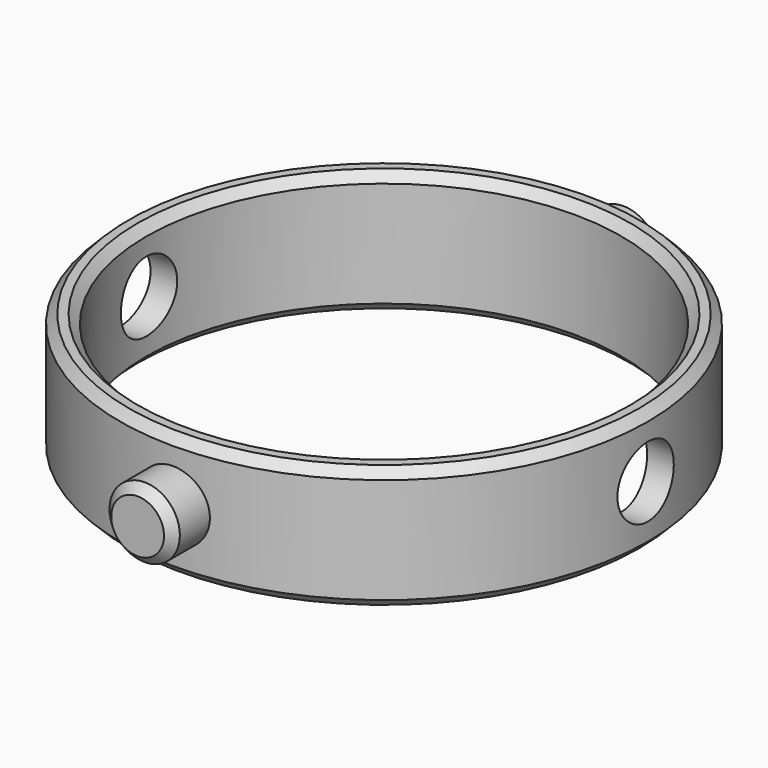
from build123d import *

# Parameters (mm, degrees)
F0_R     = 15
F0_R_2   = 13.5
F1_DEPTH = 7
F2_R     = 2
F3_DEPTH = 20
F4_SIZE  = 0.5
F6_R     = 2
F7_DEPTH = 4
F9_SIZE  = 0.5


with BuildPart() as f1:
    # F0 (on Top) → F1 (new body)
    with BuildSketch(Plane.XY):
        Circle(F0_R)
        Circle(F0_R_2, mode=Mode.SUBTRACT)
    extrude(amount=F1_DEPTH)

    # F2 (on Right) → F3 (cut, symmetric)
    with BuildSketch(Plane.YZ):
        with Locations((0, 3.5)):
            Circle(F2_R)
    extrude(amount=F3_DEPTH, both=True, mode=Mode.SUBTRACT)

    # F4
    f4_edges = [f1.edges().sort_by_distance(p)[0] for p in [
        (-15, 0, 7),
        (-13.5, 0, 7),
        (-15, 0, 0),
        (-13.5, 0, 0),
    ]]
    chamfer(f4_edges, length=F4_SIZE)

    # F6 (on offset) → F7 (join)
    with BuildSketch(Plane.XZ.offset(-13.5)):
        with Locations((0, 3.5)):
            Circle(F6_R)
    extrude(amount=-F7_DEPTH)

    # F8: F1 across plane


with BuildPart() as f1_1:
    add(f1.part)
    add(f1.part.mirror(Plane.XZ))

    # F9
    f9_edges = [f1_1.edges().sort_by_distance(p)[0] for p in [
        (-2, 17.5, 3.5),
        (-2, -17.5, 3.5),
    ]]
    chamfer(f9_edges, length=F9_SIZE)


solid = f1_1.part
